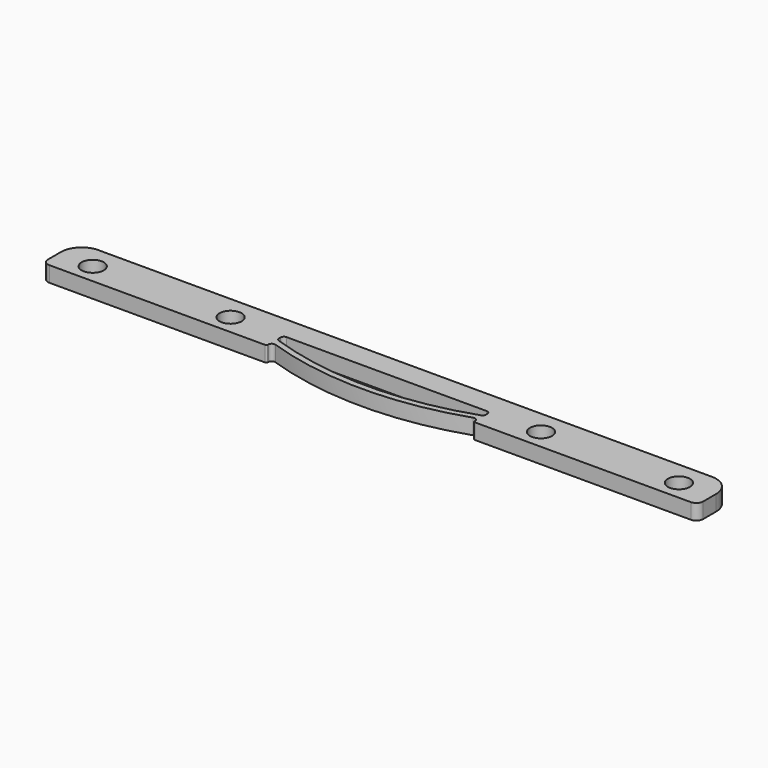
from build123d import *

# Parameters (mm, degrees)
SKETCH011_W          = 95
SKETCH011_H          = 6.35
SKETCH011_R          = 1.6
PAD005_DEPTH         = 2.25
SKETCH012_W          = 30
SKETCH012_H          = 3
POCKET003_DEPTH      = 0.001
POCKET003_DEPTH_BACK = 2.251
PAD006_DEPTH         = 2.25
FILLET002_R          = 0.5
FILLET004_R          = 0.2
FILLET003_R          = 1
FILLET005_R          = 3


with BuildPart() as part:
    # Sketch011 → Pad005 (new body)
    with BuildSketch(Plane.XY):
        with Locations((0, 0.325)):
            Rectangle(SKETCH011_W, SKETCH011_H)
        with Locations((-42.5, 0)):
            Circle(SKETCH011_R, mode=Mode.SUBTRACT)
        with Locations((42.5, 0)):
            Circle(SKETCH011_R, mode=Mode.SUBTRACT)
        with Locations((-22.5, 0)):
            Circle(SKETCH011_R, mode=Mode.SUBTRACT)
        with Locations((22.5, 0)):
            Circle(SKETCH011_R, mode=Mode.SUBTRACT)
    extrude(amount=PAD005_DEPTH)

    # Sketch012 → Pocket003 (cut, two sides)
    with BuildSketch(Plane.XY) as pocket003_sk:
        with Locations((0, -1.35)):
            Rectangle(SKETCH012_W, SKETCH012_H)
    extrude(amount=-POCKET003_DEPTH, mode=Mode.SUBTRACT)
    extrude(pocket003_sk.sketch, amount=POCKET003_DEPTH_BACK, mode=Mode.SUBTRACT)

    # Sketch013 → Pad006 (join)
    with BuildSketch(Plane.XY):
        with BuildLine():
            ThreePointArc((-15, -1.85), (0, -4.423593), (15, -1.85))
            Line((15, -0.95), (15, -1.85))
            ThreePointArc((-15, -0.95), (0, -3.523593), (15, -0.95))
            Line((-15, -0.95), (-15, -1.85))
        make_face()
    extrude(amount=PAD006_DEPTH)

    # Fillet002
    fillet002_edges = [part.edges().sort_by_distance(p)[0] for p in [
        (15, 0.15, 1.125),
        (-15, 0.15, 1.125),
        (-15, -0.95, 1.125),
        (15, -0.95, 1.125),
        (-15, -1.85, 1.125),
        (15, -1.85, 1.125),
    ]]
    fillet(fillet002_edges, radius=FILLET002_R)

    # Fillet004
    fillet004_edges = [part.edges().sort_by_distance(p)[0] for p in [
        (15, -2.85, 1.125),
        (-15, -2.85, 1.125),
    ]]
    fillet(fillet004_edges, radius=FILLET004_R)

    # Fillet003
    fillet003_edges = [part.edges().sort_by_distance(p)[0] for p in [
        (-47.5, -2.85, 1.125),
        (47.5, -2.85, 1.125),
    ]]
    fillet(fillet003_edges, radius=FILLET003_R)

    # Fillet005
    fillet005_edges = [part.edges().sort_by_distance(p)[0] for p in [
        (-47.5, 3.5, 1.125),
        (47.5, 3.5, 1.125),
    ]]
    fillet(fillet005_edges, radius=FILLET005_R)


solid = part.part
